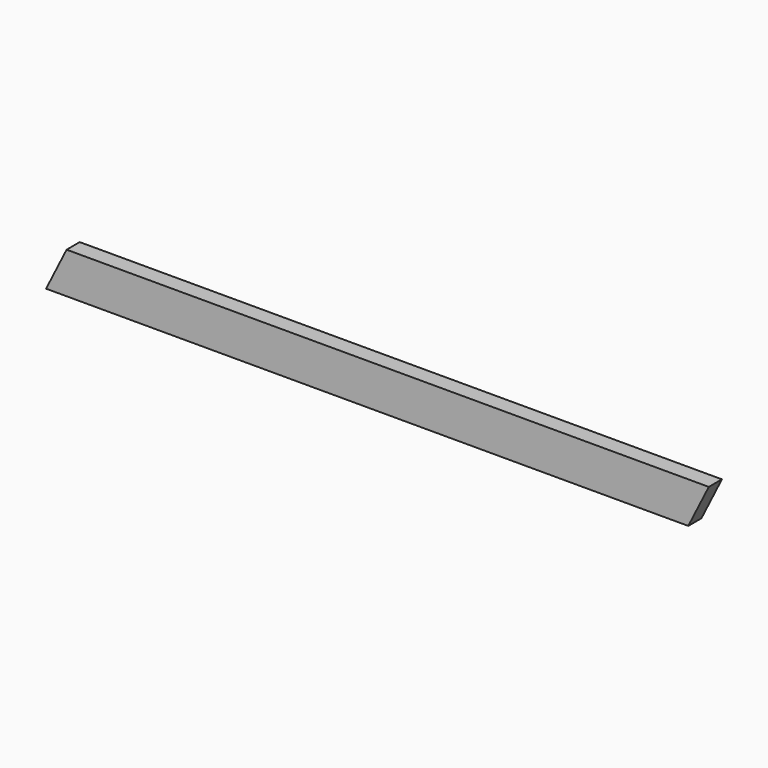
from build123d import *

# Parameters (mm, degrees)
F0_W          = 50
F0_H          = 125
F1_DEPTH      = 2019
F3_DEPTH      = 25
F3_DEPTH_BACK = 25


with BuildPart() as f1:
    # F0 (on Right) → F1 (new body)
    with BuildSketch(Plane.YZ):
        Rectangle(F0_W, F0_H)
    extrude(amount=-F1_DEPTH)

    # F2 (on Front) → F3 (cut, two sides)
    with BuildSketch(Plane.XZ) as f3_sk:
        Polygon((0, -62.5), (0, 62.5), (-62.5, -62.5), align=None)
        Polygon((-2019, 62.5), (-2019, -62.5), (-1956.5, 62.5), align=None)
    extrude(amount=-F3_DEPTH, mode=Mode.SUBTRACT)
    extrude(f3_sk.sketch, amount=F3_DEPTH_BACK, mode=Mode.SUBTRACT)


solid = f1.part
